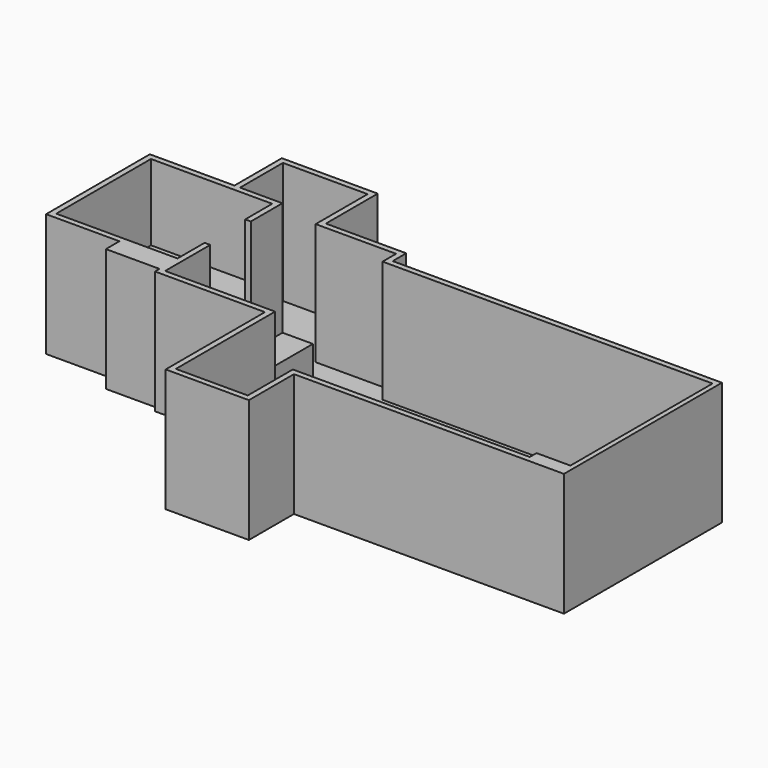
from build123d import *

# Parameters (mm, degrees)
F1_DEPTH = 2438.4
F3_DEPTH = 30.48
F4_W     = 2432.304
F4_H     = 678.7896
F5_DEPTH = 914.4
F7_DEPTH = 914.4


with BuildPart() as f1:
    # F0 (on Top) → F1 (new body)
    with BuildSketch(Plane.XY):
        Polygon((0, -2488.9968), (0, 0), (-2206.1424, 0), (-2319.287818, 0), (-2319.287818, -113.14176), (-113.14176, -113.14176), (-113.14176, -2602.13856), (1555.717183, -2602.13856), (1555.717183, -1472.32116), (6970.153903, -1472.32116), (6970.153903, 2487.753216), (367.881103, 2487.753216), (367.881103, 2827.178496), (-1244.441098, 2827.178496), (-1244.441098, 4128.064896), (-3167.851018, 4128.064896), (-3167.851018, 2940.198336), (-3054.709258, 2940.198336), (-3054.709258, 4014.923136), (-1357.582858, 4014.923136), (-1357.582858, 2714.036736), (254.739343, 2714.036736), (254.739343, 2374.611456), (6873.471343, 2374.611456), (6873.471343, -1189.46676), (6194.681743, -1189.46676), (6194.681743, -1359.1794), (1442.575423, -1359.1794), (1442.575423, -2488.9968), align=None)
        Polygon((-2319.287818, 0), (-2206.1424, 0), (-2206.1424, 1131.454176), (-2319.287818, 1131.454176), (-2319.287818, 452.664576), (-4751.591818, 452.664576), (-4751.591818, 1131.454176), (-4751.591818, 2148.266976), (-4751.591818, 2827.056576), (-2319.287818, 2827.056576), (-2319.287818, 2148.266976), (-2206.146058, 2148.266976), (-2206.146058, 2940.198336), (-3054.709258, 2940.198336), (-3167.851018, 2940.198336), (-4864.733578, 2940.198336), (-4864.733578, 339.522816), (-3393.948, 339.522816), (-3393.948, 0), align=None)
    extrude(amount=F1_DEPTH)

    # F2 (on face) → F3 (join)
    with BuildSketch(Plane(origin=(0, 0, 0), x_dir=(1, 0, 0), z_dir=(0, 0, -1))):
        Polygon((-2319.287818, 0), (-3393.948, 0), (-3393.948, -339.522816), (-4864.733578, -339.522816), (-4864.733578, -2940.198336), (-3167.851018, -2940.198336), (-3167.851018, -4128.064896), (-1244.441098, -4128.064896), (-1244.441098, -2827.178496), (367.881103, -2827.178496), (367.881103, -2487.753216), (6970.153903, -2487.753216), (6970.153903, 1472.32116), (1555.717183, 1472.32116), (1555.717183, 2602.13856), (-113.14176, 2602.13856), (-113.14176, 113.14176), (-2319.287818, 113.14176), align=None)
    extrude(amount=F3_DEPTH)

    # F4 (on face) → F5 (join)
    with BuildSketch(Plane.XY):
        with Locations((-3535.439818, 792.059376)):
            Rectangle(F4_W, F4_H)
        with Locations((-3535.439818, 2487.661776)):
            Rectangle(F4_W, F4_H)
    extrude(amount=F5_DEPTH)

    # F6 (on face) → F7 (join)
    with BuildSketch(Plane.XY):
        Polygon((-682.1424, 1799.636736), (-1291.7424, 1799.636736), (-1291.7424, 379.268736), (-2206.1424, 379.268736), (-2206.1424, 0), (-682.1424, 0), align=None)
    extrude(amount=F7_DEPTH)


solid = f1.part
